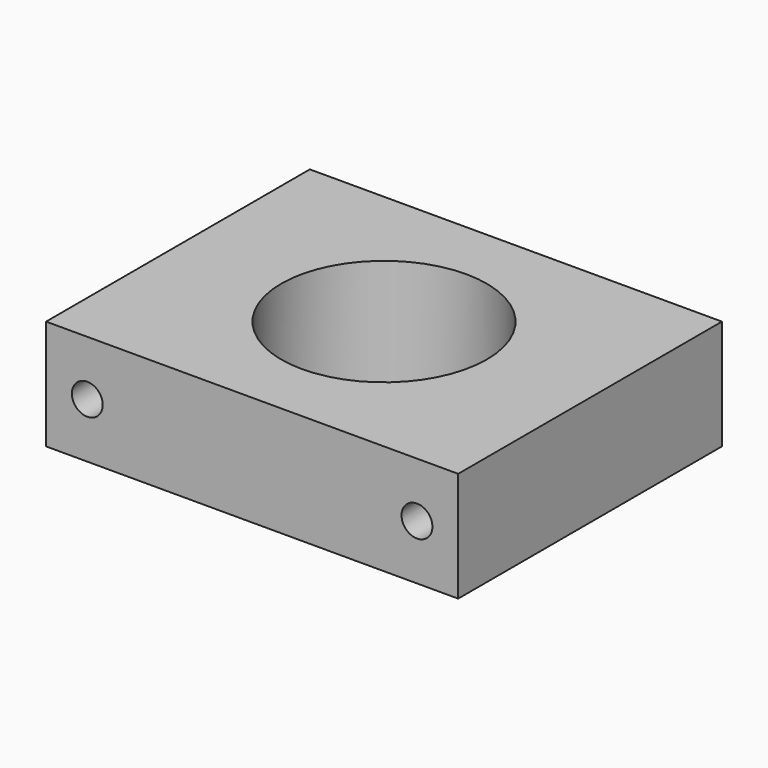
from build123d import *

# Parameters (mm, degrees)
F0_W     = 95.25
F0_H     = 76.2
F0_R     = 23.749
F1_DEPTH = 25.4
F2_R     = 3.5687
F3_DEPTH = 114.61536


with BuildPart() as f1:
    # F0 (on Top) → F1 (new body)
    with BuildSketch(Plane.XY):
        with Locations((2.548795, -5.332216)):
            Rectangle(F0_W, F0_H)
        with Locations((2.548795, -5.332216)):
            Circle(F0_R, mode=Mode.SUBTRACT)
    extrude(amount=F1_DEPTH)

    # F2 (on face) → F3 (cut)
    with BuildSketch(Plane(origin=(0, 32.767784, 0), x_dir=(-1, 0, 0), z_dir=(0, 1, 0))):
        with Locations((35.551205, 12.7)):
            Circle(F2_R)
        with Locations((-40.648795, 12.7)):
            Circle(F2_R)
    extrude(amount=-F3_DEPTH, mode=Mode.SUBTRACT)


solid = f1.part
